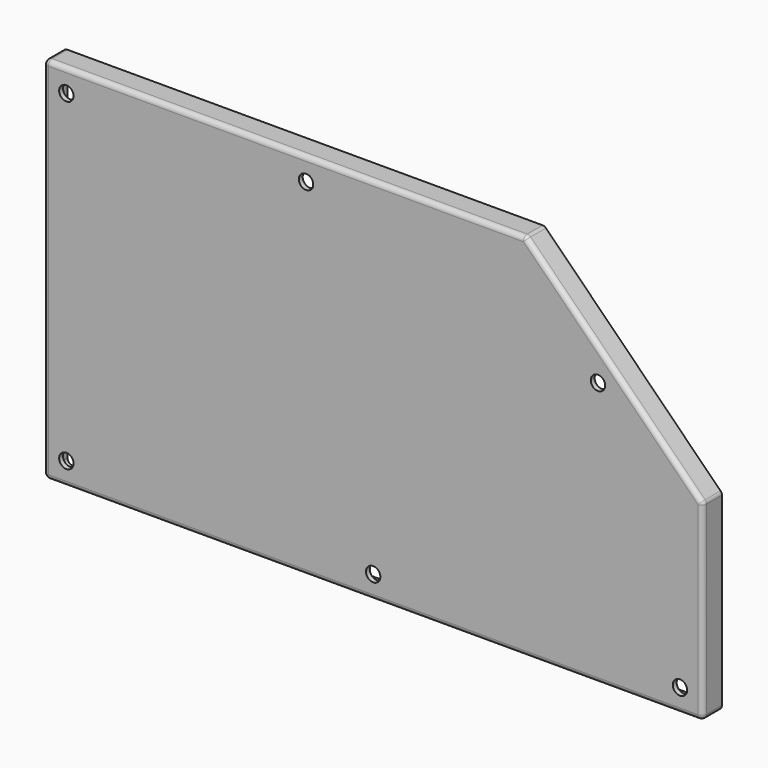
from build123d import *

# Parameters (mm, degrees)
F1_DEPTH = 10
F2_T     = -2
F5_DEPTH = 4
F6_R     = 13.5
F7_DEPTH = 20
F8_R     = 4
F9_DEPTH = 20
F11_D    = 6
F12_R    = 2
F13_R    = 2


with BuildPart() as f1:
    # F0 (on Front) → F1 (new body)
    with BuildSketch(Plane.XZ):
        Polygon((0, 154), (0, 0), (275, 0), (275, 80), (201, 154), align=None)
    extrude(amount=F1_DEPTH)

    # F2
    f2_openings = [f1.faces().sort_by_distance(p)[0] for p in [
        (129.700907, 0, 73.382695),
    ]]
    offset(amount=F2_T, openings=f2_openings)

    # F4 (on face) → F5 (join)
    with BuildSketch(Plane(origin=(0, -8, 0), x_dir=(-1, 0, 0), z_dir=(0, 1, 0))):
        Polygon((-32, 87), (-32, 132), (-177, 132), (-177, 22), (-97, 22), align=None)
        Polygon((-32, 87), (-32, 132), (-177, 132), (-177, 22), (-97, 22), align=None)
    extrude(amount=F5_DEPTH)

    # F6 (on face) → F7 (join)
    with BuildSketch(Plane(origin=(0, -8, 0), x_dir=(-1, 0, 0), z_dir=(0, 1, 0))):
        with Locations((-44, 44)):
            Circle(F6_R)
    extrude(amount=F7_DEPTH)

    # F8 (on face) → F9 (cut, through all)
    with BuildSketch(Plane(origin=(0, 12, 0), x_dir=(-1, 0, 0), z_dir=(0, 1, 0))):
        with Locations((-44, 44)):
            Circle(F8_R)
    extrude(amount=-F9_DEPTH, mode=Mode.SUBTRACT)

    # F11 (through all)
    with Locations(Plane.XZ.offset(10)):
        with Locations((9.5, 144.5), (109.5, 144.5), (231.2824855787, 110.2824855787), (265.5, 9.5), (137.5, 9.5), (9.5, 9.5)):
            Hole(F11_D / 2)

    # F12
    f12_edges = [f1.edges().sort_by_distance(p)[0] for p in [
        (0, -10, 77),
        (137.5, -10, 0),
        (238, -10, 117),
        (275, -10, 40),
        (275, -5, 0),
        (275, -5, 80),
        (201, -5, 154),
        (0, -5, 0),
        (100.5, -10, 154),
        (0, -5, 154),
    ]]
    fillet(f12_edges, radius=F12_R)

    # F13
    f13_edges = [f1.edges().sort_by_distance(p)[0] for p in [
        (273, -4, 2),
        (137.5, -8, 2),
        (273, -8, 40.585786),
        (236.585786, -8, 115.585786),
        (200.171573, -4, 152),
        (101.085786, -8, 152),
        (2, -4, 2),
        (2, -8, 77),
    ]]
    fillet(f13_edges, radius=F13_R)


solid = f1.part
